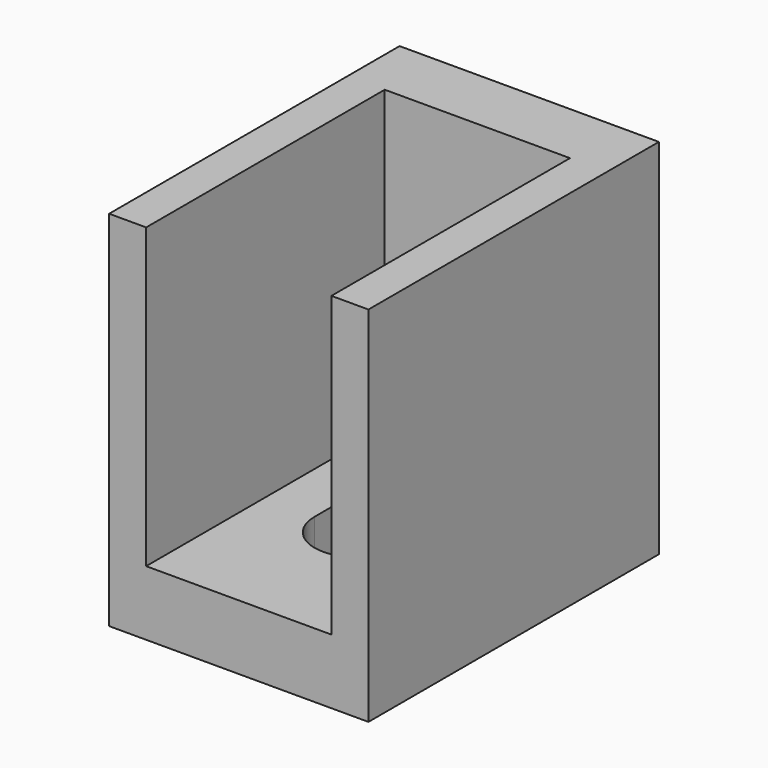
from build123d import *

# Parameters (mm, degrees)
SKETCH001_W  = 20
SKETCH001_H  = 28
PAD001_DEPTH = 2.5
SKETCH002_W  = 20
SKETCH002_H  = 5
PAD002_DEPTH = 23
POCKET_DEPTH = 5
SKETCH004_W  = 2.855627
SKETCH004_H  = 23
PAD003_DEPTH = 23


with BuildPart() as part:
    # Sketch001 → Pad001 (new body, symmetric)
    with BuildSketch(Plane.XZ):
        Rectangle(SKETCH001_W, SKETCH001_H)
        with BuildLine():
            ThreePointArc((3.25, 2.625), (0, 5.875), (-3.25, 2.625))
            Line((-3.25, 2.625), (-3.25, -2.625))
            ThreePointArc((-3.25, -2.625), (0, -5.875), (3.25, -2.625))
            Line((3.25, 2.625), (3.25, -2.625))
        make_face(mode=Mode.SUBTRACT)
    extrude(amount=PAD001_DEPTH, both=True)

    # Sketch002 (on Face10 of Pad001) → Pad002 (join)
    with BuildSketch(Plane.XZ.offset(2.5)):
        with Locations((0, -11.5)):
            Rectangle(SKETCH002_W, SKETCH002_H)
    extrude(amount=PAD002_DEPTH)

    # Sketch003 (on Face13 of Pad002) → Pocket (cut)
    with BuildSketch(Plane(origin=(0, 0, -9), x_dir=(-1, 0, 0), z_dir=(0, 0, 1))):
        with BuildLine():
            ThreePointArc((3.25, 14.125), (0, 17.375), (-3.25, 14.125))
            Line((-3.25, 14.125), (-3.25, 8.875))
            ThreePointArc((-3.25, 8.875), (0, 5.625), (3.25, 8.875))
            Line((3.25, 14.125), (3.25, 8.875))
        make_face()
    extrude(amount=-POCKET_DEPTH, mode=Mode.SUBTRACT)

    # Sketch004 (on Face5 of Pocket) → Pad003 (join)
    with BuildSketch(Plane.XZ.offset(2.5)):
        with Locations((-8.5721865, 2.5)):
            Rectangle(SKETCH004_W, SKETCH004_H)
        with Locations((8.5721865, 2.5)):
            Rectangle(SKETCH004_W, SKETCH004_H)
    extrude(amount=PAD003_DEPTH)


solid = part.part
